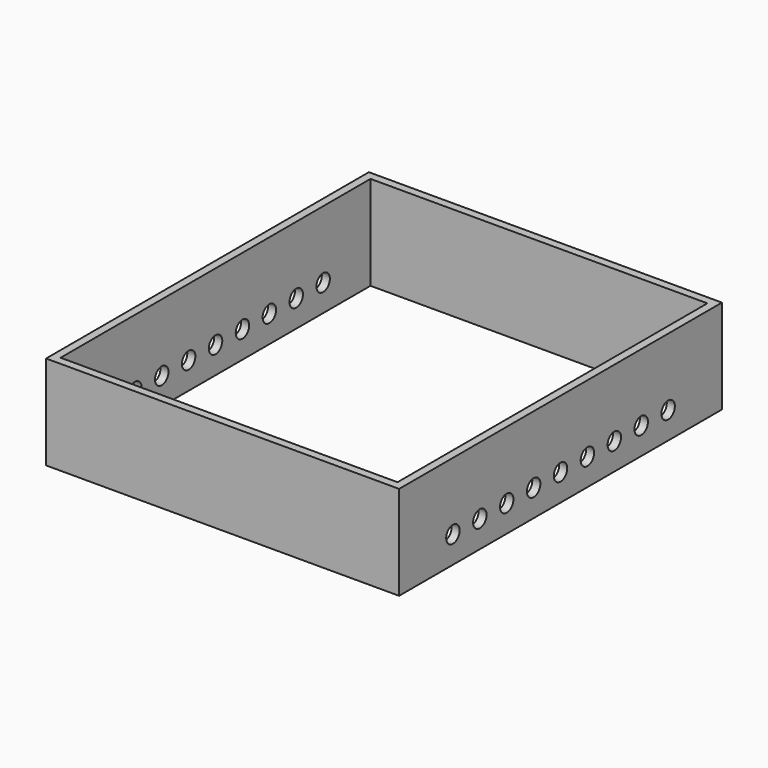
from build123d import *

# Parameters (mm, degrees)
SKETCH_W        = 105
SKETCH_H        = 120
PAD_DEPTH       = 28
SKETCH001_W     = 100.2
SKETCH001_H     = 115.2
POCKET_DEPTH    = 28.001
SKETCH002_R     = 2.5
POCKET001_DEPTH = 105.001


with BuildPart() as part:
    # Sketch → Pad (new body)
    with BuildSketch(Plane.XY):
        with Locations((0, -10)):
            Rectangle(SKETCH_W, SKETCH_H)
    extrude(amount=PAD_DEPTH)

    # Sketch001 → Pocket (cut, through all)
    with BuildSketch(Plane.XY.offset(28)):
        with Locations((0, -10)):
            Rectangle(SKETCH001_W, SKETCH001_H)
    extrude(amount=-POCKET_DEPTH, mode=Mode.SUBTRACT)

    # Sketch002 → Pocket001 (cut, through all)
    with BuildSketch(Plane(origin=(-52.5, 0, 0), x_dir=(0, -1, 0), z_dir=(-1, 0, 0))):
        with Locations((-10, 8)):
            Circle(SKETCH002_R)
        with Locations((10, 8)):
            Circle(SKETCH002_R)
        with Locations((-20, 8)):
            Circle(SKETCH002_R)
        with Locations((20, 8)):
            Circle(SKETCH002_R)
        with Locations((30, 8)):
            Circle(SKETCH002_R)
        with Locations((40, 8)):
            Circle(SKETCH002_R)
        with Locations((50, 8)):
            Circle(SKETCH002_R)
        with Locations((-30, 8)):
            Circle(SKETCH002_R)
        with Locations((0, 8)):
            Circle(SKETCH002_R)
    extrude(amount=-POCKET001_DEPTH, mode=Mode.SUBTRACT)


solid = part.part
